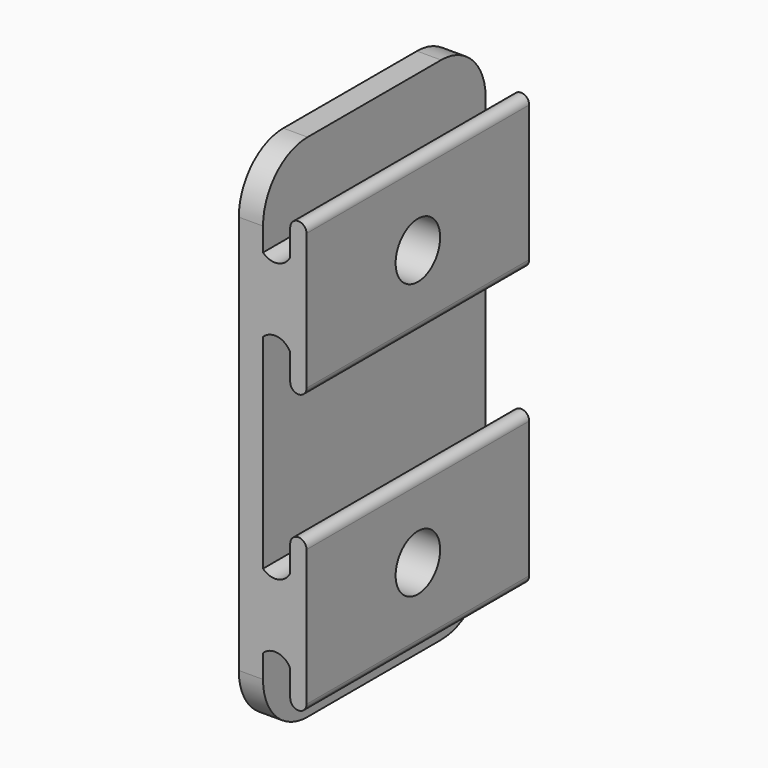
from build123d import *

# Parameters (mm, degrees)
F1_DEPTH = 25.4
F2_R     = 5.08
F3_R     = 2.54
F4_DEPTH = 25.4
F5_R     = 2.54
F6_DEPTH = 25.4


with BuildPart() as f1:
    # F0 (on Front) → F1 (new body)
    with BuildSketch(Plane.XZ):
        with BuildLine():
            Line((-12.425265, 4.646856), (-12.425265, 10.895256))
            Line((-12.425265, 10.895256), (-14.635065, 10.895256))
            Line((-14.635065, 10.895256), (-14.635065, -10.288344))
            Line((-14.635065, -10.288344), (-14.635065, -35.688344))
            Line((-14.635065, -35.688344), (-12.425265, -35.688344))
            Line((-12.425265, -35.688344), (-12.425265, -29.439944))
            Line((-12.425265, -29.439944), (-12.425265, -28.48251))
            ThreePointArc((-12.425265, -28.48251), (-11.068052, -28.054224), (-9.941773, -28.924254))
            Line((-9.941773, -28.924254), (-9.941773, -31.308309))
            ThreePointArc((-9.941773, -31.308309), (-9.196233, -32.05385), (-8.450692, -31.308309))
            Line((-8.450692, -31.308309), (-8.450692, -18.884778))
            ThreePointArc((-8.450692, -18.884778), (-9.196233, -18.139237), (-9.941773, -18.884778))
            Line((-9.941773, -18.884778), (-9.941773, -21.268833))
            ThreePointArc((-9.941773, -21.268833), (-11.068052, -22.138863), (-12.425265, -21.710577))
            Line((-12.425265, -21.710577), (-12.425265, -20.753144))
            Line((-12.425265, -20.753144), (-12.425265, -14.504744))
            Line((-12.425265, -14.504744), (-12.425265, -10.288344))
            Line((-12.425265, -10.288344), (-12.425265, -4.039944))
            Line((-12.425265, -4.039944), (-12.425265, -3.08251))
            ThreePointArc((-12.425265, -3.08251), (-11.068052, -2.654224), (-9.941773, -3.524254))
            Line((-9.941773, -3.524254), (-9.941773, -5.908309))
            ThreePointArc((-9.941773, -5.908309), (-9.196233, -6.65385), (-8.450692, -5.908309))
            Line((-8.450692, -5.908309), (-8.450692, 6.515222))
            ThreePointArc((-8.450692, 6.515222), (-9.196233, 7.260763), (-9.941773, 6.515222))
            Line((-9.941773, 6.515222), (-9.941773, 4.131167))
            ThreePointArc((-9.941773, 4.131167), (-11.068052, 3.261137), (-12.425265, 3.689423))
            Line((-12.425265, 3.689423), (-12.425265, 4.646856))
        make_face()
    extrude(amount=-F1_DEPTH)

    # F2
    f2_edges = [f1.edges().sort_by_distance(p)[0] for p in [
        (-13.530165, 25.4, -35.688344),
        (-13.530165, 0, -35.688344),
        (-13.530165, 25.4, 10.895256),
        (-13.530165, 0, 10.895256),
    ]]
    fillet(f2_edges, radius=F2_R)

    # F3 (on face) → F4 (cut)
    with BuildSketch(Plane.YZ.offset(-8.450692)):
        with Locations((12.7, 0)):
            Circle(F3_R)
    extrude(amount=-F4_DEPTH, mode=Mode.SUBTRACT)

    # F5 (on face) → F6 (cut)
    with BuildSketch(Plane.YZ.offset(-8.450692)):
        with Locations((12.7, -25.096544)):
            Circle(F5_R)
    extrude(amount=-F6_DEPTH, mode=Mode.SUBTRACT)


solid = f1.part
